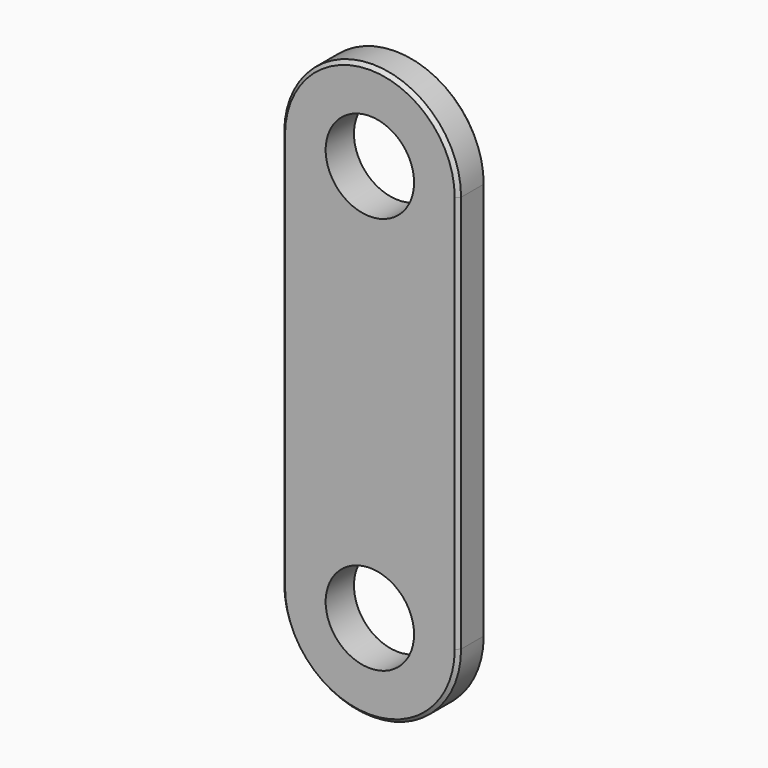
from build123d import *

# Parameters (mm, degrees)
F0_R     = 25
F1_DEPTH = 20
F2_SIZE2 = 2
F2_SIZE  = 2


with BuildPart() as f1:
    # F0 (on Front) → F1 (new body)
    with BuildSketch(Plane.XZ):
        with BuildLine():
            ThreePointArc((50, 112.5), (0, 162.5), (-50, 112.5))
            Line((-50, 112.5), (-50, -112.5))
            ThreePointArc((-50, -112.5), (0, -162.5), (50, -112.5))
            Line((50, -112.5), (50, 112.5))
        make_face()
        with Locations((0, -112.5)):
            Circle(F0_R, mode=Mode.SUBTRACT)
        with Locations((0, 112.5)):
            Circle(F0_R, mode=Mode.SUBTRACT)
    extrude(amount=F1_DEPTH)

    # F2
    f2_edges = [f1.edges().sort_by_distance(p)[0] for p in [
        (-50, -20, 0),
        (50, 0, 0),
    ]]
    chamfer(f2_edges, length=F2_SIZE, length2=F2_SIZE2)


solid = f1.part
